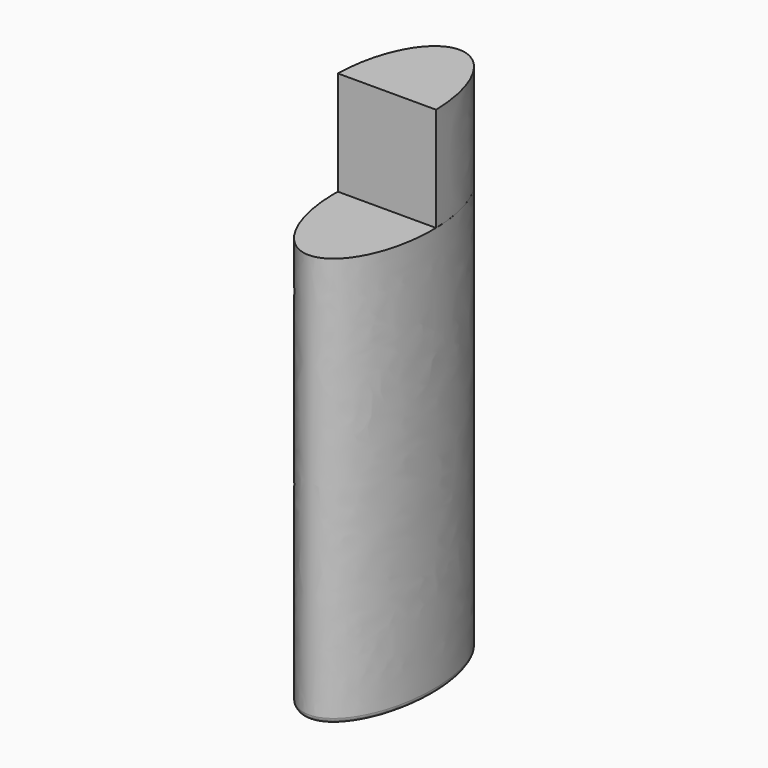
from build123d import *

# Parameters (mm, degrees)
F1_DEPTH = 50
F2_R     = 0.635
F4_DEPTH = 12.7


with BuildPart() as f1:
    # F0 (on Top) → F1 (new body)
    with BuildSketch(Plane.XY):
        with BuildLine():
            add(Edge.make_bspline(
                [(0, -11.5), (10.3923048454, -11.5), (5.1961524227, 5.75), (0, 23), (-5.1961524227, 5.75), (-10.3923048454, -11.5), (0, -11.5)],
                knots=[0, 0, 0, 2.0943951024, 2.0943951024, 4.1887902048, 4.1887902048, 6.2831853072, 6.2831853072, 6.2831853072], degree=2, weights=[1, 0.5, 1, 0.5, 1, 0.5, 1]))
        make_face()
    extrude(amount=F1_DEPTH)

    # F2
    f2_edges = [f1.edges().sort_by_distance(p)[0] for p in [
        (1e-06, 11.5, 0),
    ]]
    fillet(f2_edges, radius=F2_R)


with BuildPart() as f4:
    # F3 (on face) → F4 (new body)
    with BuildSketch(Plane.XY.offset(50)):
        with BuildLine():
            Line((-5.9954312191, 0.4486985718), (5.9954312191, 0.4486985718))
            add(Edge.make_bspline(
                [(5.9954312191, 0.4486985718), (5.7702902626, 11.5), (0, 11.5), (-5.7702902626, 11.5), (-5.9954312191, 0.4486985718)],
                knots=[1.6098235003, 1.6098235003, 1.6098235003, 3.1415926536, 3.1415926536, 4.6733618068, 4.6733618068, 4.6733618068], degree=2, weights=[1, 0.7207694732, 1, 0.7207694732, 1]))
        make_face()
    extrude(amount=F4_DEPTH)


solid = Compound([f1.part, f4.part])
